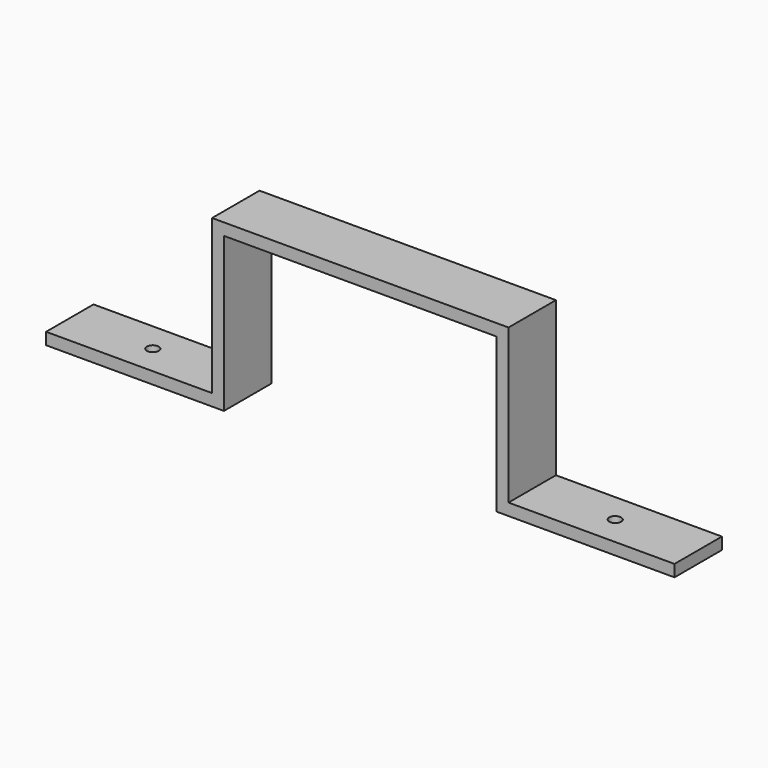
from build123d import *

# Parameters (mm, degrees)
F1_DEPTH = 5
F2_R     = 0.5
F3_DEPTH = 1.001


with BuildPart() as f1:
    # F0 (on Front) → F1 (new body)
    with BuildSketch(Plane.XZ):
        Polygon((-11.5, -13), (-11.5, 0), (11.5, 0), (11.5, -13), (26.5, -13), (26.5, -12), (12.5, -12), (12.5, 1), (-12.5, 1), (-12.5, -12), (-26.5, -12), (-26.5, -13), align=None)
    extrude(amount=F1_DEPTH)

    # F2 (on face) → F3 (cut, through all)
    with BuildSketch(Plane.XY.offset(-12)):
        with Locations((-19.5, -2.5)):
            Circle(F2_R)
        with Locations((19.5, -2.5)):
            Circle(F2_R)
    extrude(amount=-F3_DEPTH, mode=Mode.SUBTRACT)


solid = f1.part
